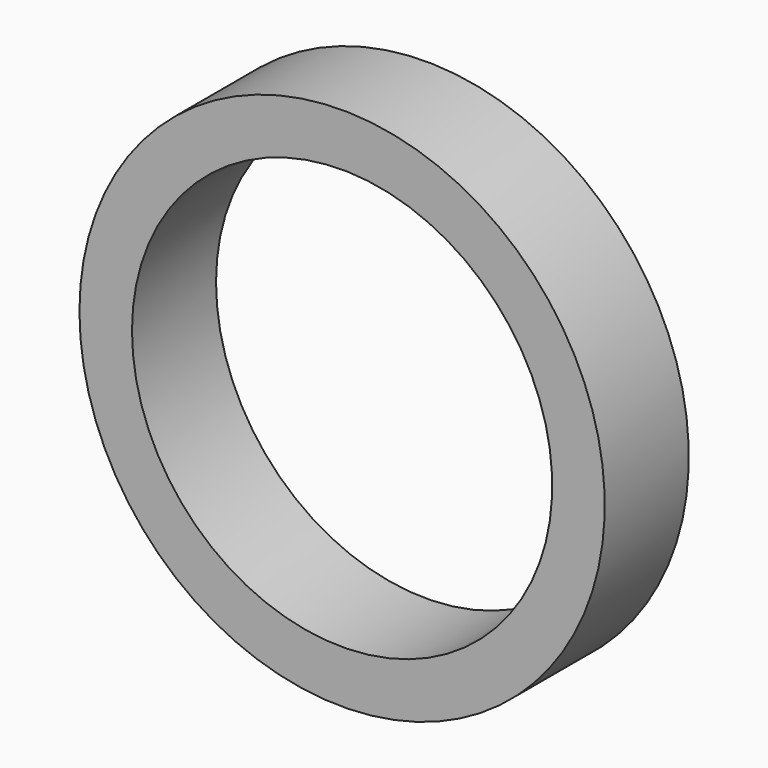
from build123d import *

# Parameters (mm, degrees)
F1_DEPTH = 3.175


with BuildPart() as f1:
    # F0 (on Front) → F1 (new body)
    with BuildSketch(Plane.XZ):
        with BuildLine():
            ThreePointArc((7.9375, 0), (0, 7.9375), (-7.9375, 0))
            ThreePointArc((-7.9375, 0), (0, -7.9375), (7.9375, 0))
        make_face()
        with BuildLine():
            ThreePointArc((6.35, 0), (0, -6.35), (-6.35, 0))
            ThreePointArc((-6.35, 0), (0, 6.35), (6.35, 0))
        make_face(mode=Mode.SUBTRACT)
    extrude(amount=F1_DEPTH)


solid = f1.part
